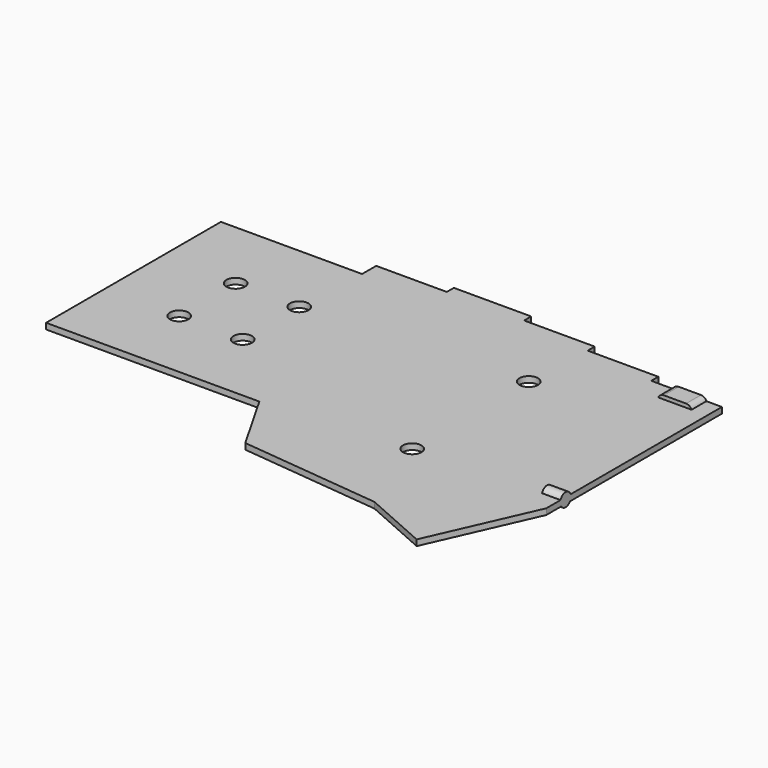
from build123d import *

# Parameters (mm, degrees)
PAD010_DEPTH    = 1.6
SKETCH025_R     = 2.5
POCKET028_DEPTH = 2
SKETCH029_R     = 1.8
PAD014_DEPTH    = 5
PAD015_DEPTH    = 5
SKETCH031_R     = 0.85
PAD016_DEPTH    = 1


with BuildPart() as part:
    # Sketch024 → Pad010 (new body)
    with BuildSketch(Plane.XY):
        Polygon((-154.9, -37.98), (-116.82, -37.98), (-116.82, -33.217), (-97.77, -33.217), (-97.77, -30.836), (-76.92, -30.836), (-76.92, -33.217), (-57.87, -33.217), (-57.87, -35.598), (-38.82, -35.598), (-38.82, -37.979), (-19.75, -37.979), (-19.75, -97.199), (-32.2082801782, -125.3392223065), (-49.87, -117.52), (-87.8773728154, -113.5453834944), (-97.37, -96.93), (-154.9, -96.93), align=None)
    extrude(amount=PAD010_DEPTH)

    # Sketch025 → Pocket028 (cut)
    with BuildSketch(Plane.XY):
        with Locations((-134.96, -57.929)):
            Circle(SKETCH025_R)
        with Locations((-117.815, -57.929)):
            Circle(SKETCH025_R)
        with Locations((-58.76, -54.359)):
            Circle(SKETCH025_R)
        with Locations((-58.76, -93.649)):
            Circle(SKETCH025_R)
        with Locations((-117.815, -76.979)):
            Circle(SKETCH025_R)
        with Locations((-134.96, -76.979)):
            Circle(SKETCH025_R)
    extrude(amount=POCKET028_DEPTH, mode=Mode.SUBTRACT)

    # Sketch029 (on Face16 of Pocket028) → Pad014 (join)
    with BuildSketch(Plane.YZ.offset(-19.75)):
        with Locations((-90.699, 1)):
            Circle(SKETCH029_R)
    extrude(amount=-PAD014_DEPTH)

    # Sketch030 (on Face15 of Pad014) → Pad015 (join)
    with BuildSketch(Plane(origin=(0, -37.979, 0), x_dir=(-1, 0, 0), z_dir=(0, 1, 0))):
        with BuildLine():
            ThreePointArc((25.42, 2.6), (23.82, 1), (25.42, -0.6))
            Line((25.42, -0.6), (31.42, -0.6))
            ThreePointArc((31.42, -0.6), (33.02, 1), (31.42, 2.6))
            Line((31.42, 2.6), (25.42, 2.6))
        make_face()
    extrude(amount=-PAD015_DEPTH)

    # Sketch031 (on Face4 of Pad015) → Pad016 (join)
    with BuildSketch(Plane(origin=(0, 0, 0), x_dir=(1, 0, 0), z_dir=(0, 0, -1))):
        with Locations((-105.55, 93.63)):
            Circle(SKETCH031_R)
        with Locations((-109.55, 93.63)):
            Circle(SKETCH031_R)
    extrude(amount=PAD016_DEPTH)


solid = part.part
